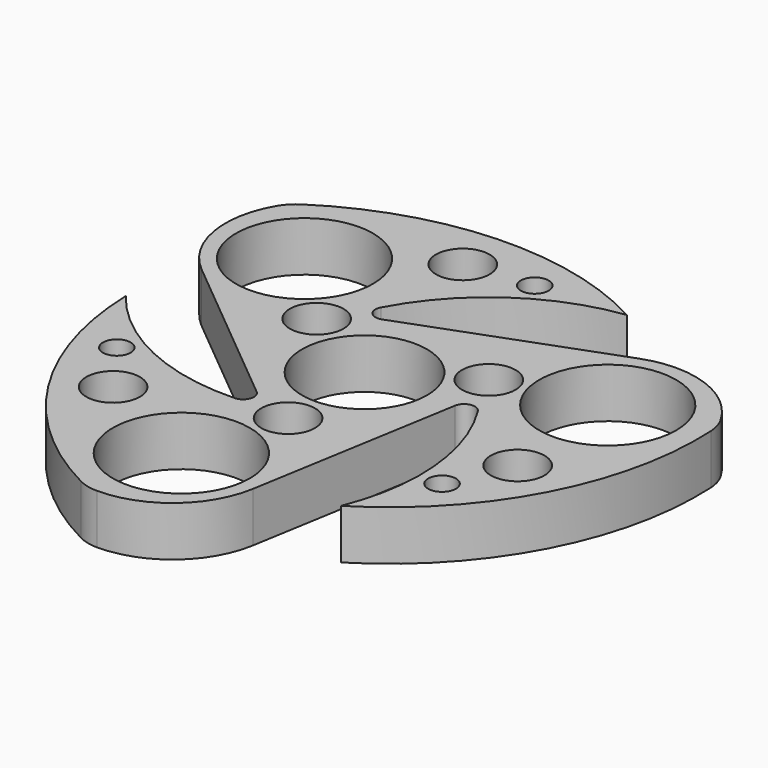
from build123d import *

# Parameters (mm, degrees)
F0_R     = 4.7498
F0_R_2   = 2.460625
F0_R_3   = 12.1158
F0_R_4   = 11.049
F1_DEPTH = 8.8138
F2_R     = 7.62


with BuildPart() as f1:
    # F0 (on Top) → F1 (new body)
    with BuildSketch(Plane.XY):
        with BuildLine():
            ThreePointArc((22.424904, -33.259839), (42.551194, -11.399454), (48.252126, 17.762907))
            ThreePointArc((48.252126, 17.762907), (39.493301, 26.578964), (27.069985, 26.89691))
            Line((27.069985, 26.89691), (-8.001, 13.858139))
            ThreePointArc((-8.001, 13.858139), (-10.104465, 14.389846), (-10.355861, 16.544859))
            ThreePointArc((-10.355861, 16.544859), (1.261852, 29.673183), (17.591413, 36.050455))
            ThreePointArc((17.591413, 36.050455), (-11.40338, 42.550142), (-39.509192, 32.906113))
            ThreePointArc((-39.509192, 32.906113), (-42.764709, 20.91272), (-36.8284, 9.99484))
            Line((-36.8284, 9.99484), (-8.001, -13.858139))
            ThreePointArc((-8.001, -13.858139), (-7.40974, -15.945647), (-9.150338, -17.240868))
            ThreePointArc((-9.150338, -17.240868), (-26.328657, -13.743796), (-40.016317, -2.790617))
            ThreePointArc((-40.016317, -2.790617), (-31.147814, -31.150688), (-8.742934, -50.669021))
            ThreePointArc((-8.742934, -50.669021), (3.271408, -47.491684), (9.758415, -36.891749))
            Line((9.758415, -36.891749), (16.002, 0))
            ThreePointArc((16.002, 0), (17.514205, 1.5558), (19.506198, 0.696009))
            ThreePointArc((19.506198, 0.696009), (25.066804, -15.929388), (22.424904, -33.259839))
        make_face()
        with Locations((-24.393054, -25.120101)):
            Circle(F0_R, mode=Mode.SUBTRACT)
        with Locations((-31.344392, -15.606719)):
            Circle(F0_R_2, mode=Mode.SUBTRACT)
        with Locations((-4.651044, -34.704587)):
            Circle(F0_R_3, mode=Mode.SUBTRACT)
        with Locations((0.333594, -17.319588)):
            Circle(F0_R, mode=Mode.SUBTRACT)
        Circle(F0_R_4, mode=Mode.SUBTRACT)
        with Locations((-27.729533, 21.380216)):
            Circle(F0_R_3, mode=Mode.SUBTRACT)
        with Locations((-15.166, 8.370893)):
            Circle(F0_R, mode=Mode.SUBTRACT)
        with Locations((-9.558119, 33.685055)):
            Circle(F0_R, mode=Mode.SUBTRACT)
        with Locations((2.156381, 34.948399)):
            Circle(F0_R_2, mode=Mode.SUBTRACT)
        with Locations((29.188011, -19.34168)):
            Circle(F0_R_2, mode=Mode.SUBTRACT)
        with Locations((33.951173, -8.564954)):
            Circle(F0_R, mode=Mode.SUBTRACT)
        with Locations((14.832406, 8.948695)):
            Circle(F0_R, mode=Mode.SUBTRACT)
        with Locations((32.380576, 13.324372)):
            Circle(F0_R_3, mode=Mode.SUBTRACT)
    extrude(amount=F1_DEPTH)

    # F2
    f2_edges = [f1.edges().sort_by_distance(p)[0] for p in [
        (-39.509192, 32.906113, 4.4069),
        (48.252126, 17.762907, 4.4069),
        (-8.742934, -50.669021, 4.4069),
    ]]
    fillet(f2_edges, radius=F2_R)


solid = f1.part
